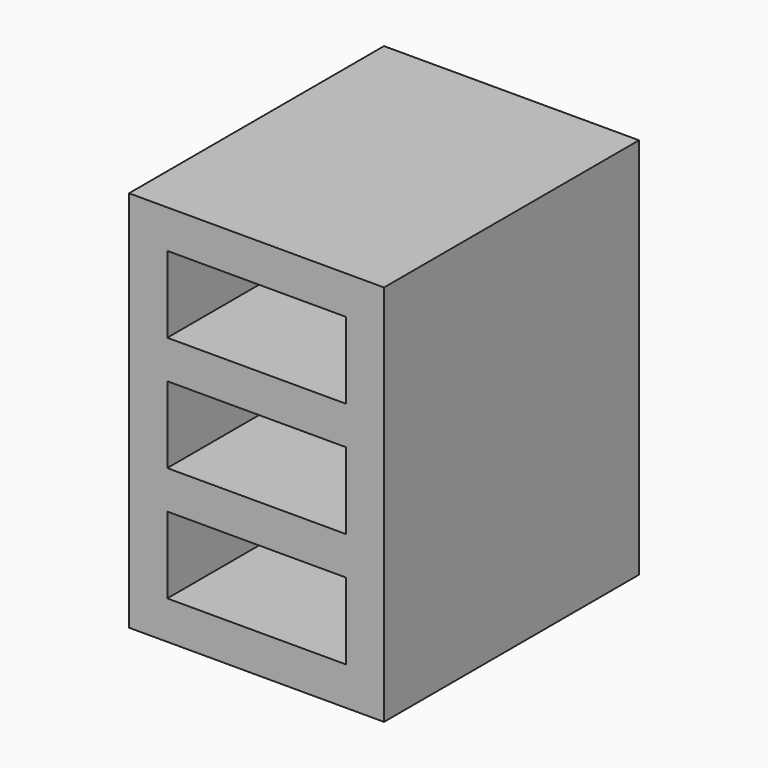
from build123d import *

# Parameters (mm, degrees)
BOX020_W          = 14
BOX020_H          = 6
BOX020_DEPTH      = 20
BOX020_ROLL_ANGLE = 90
BOX021_W          = 14
BOX021_H          = 6
BOX021_DEPTH      = 20
BOX021_ROLL_ANGLE = 90
BOX019_W          = 14
BOX019_H          = 6
BOX019_DEPTH      = 20
BOX019_ROLL_ANGLE = 90
BOX018_W          = 20
BOX018_H          = 30
BOX018_DEPTH      = 25
BOX018_ROLL_ANGLE = 90


with BuildPart() as usb_plug002:
    # Box020 → Box020 (new body)
    with BuildSketch(Plane.XY):
        with Locations((7, 3)):
            Rectangle(BOX020_W, BOX020_H)
    extrude(amount=BOX020_DEPTH)


with BuildPart() as usb_plug002_1:
    # Box020 roll: moved
    add(usb_plug002.part.rotate(Axis((0, 0, 0), (1, 0, 0)), BOX020_ROLL_ANGLE))


with BuildPart() as usb_plug002_2:
    # Box020 placement: moved
    add(usb_plug002_1.part.moved(Location((243, 13, 112))))


with BuildPart() as usb_plug003:
    # Box021 → Box021 (new body)
    with BuildSketch(Plane.XY):
        with Locations((7, 3)):
            Rectangle(BOX021_W, BOX021_H)
    extrude(amount=BOX021_DEPTH)


with BuildPart() as usb_plug003_1:
    # Box021 roll: moved
    add(usb_plug003.part.rotate(Axis((0, 0, 0), (1, 0, 0)), BOX021_ROLL_ANGLE))


with BuildPart() as usb_plug003_2:
    # Box021 placement: moved
    add(usb_plug003_1.part.moved(Location((243, 13, 121))))


with BuildPart() as usb_plug001:
    # Box019 → Box019 (new body)
    with BuildSketch(Plane.XY):
        with Locations((7, 3)):
            Rectangle(BOX019_W, BOX019_H)
    extrude(amount=BOX019_DEPTH)


with BuildPart() as usb_plug001_1:
    # Box019 roll: moved
    add(usb_plug001.part.rotate(Axis((0, 0, 0), (1, 0, 0)), BOX019_ROLL_ANGLE))


with BuildPart() as usb_plug001_2:
    # Box019 placement: moved
    add(usb_plug001_1.part.moved(Location((243, 13, 103))))


with BuildPart() as usb_plug:
    # Box018 → Box018 (new body)
    with BuildSketch(Plane.XY):
        with Locations((10, 15)):
            Rectangle(BOX018_W, BOX018_H)
    extrude(amount=BOX018_DEPTH)


with BuildPart() as usb_plug_1:
    # Box018 roll: moved
    add(usb_plug.part.rotate(Axis((0, 0, 0), (1, 0, 0)), BOX018_ROLL_ANGLE))


with BuildPart() as usb_plug_2:
    # Box018 placement: moved
    add(usb_plug_1.part.moved(Location((240, 20, 100))))

    # Cut012: cut USB Plug001
    add(usb_plug001_2.part, mode=Mode.SUBTRACT)

    # Cut013: cut USB Plug003
    add(usb_plug003_2.part, mode=Mode.SUBTRACT)

    # Cut014: cut USB Plug002
    add(usb_plug002_2.part, mode=Mode.SUBTRACT)


with BuildPart() as usb_plug_3:
    # Cut014 placement: moved
    add(usb_plug_2.part.moved(Location((0, 0, -40))))


solid = usb_plug_3.part
